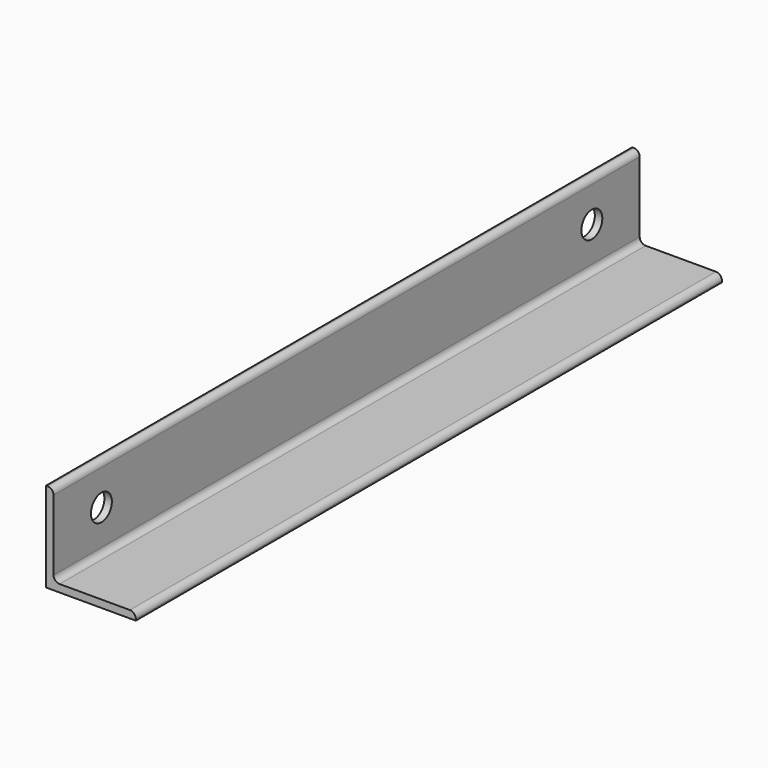
from build123d import *

# Parameters (mm, degrees)
F1_DEPTH = 311.15
F2_R     = 5.08
F3_R     = 11.1125
F4_DEPTH = 25.4


with BuildPart() as f1:
    # F0 (on Front) → F1 (new body, symmetric)
    with BuildSketch(Plane.XZ):
        Polygon((-38.1, -38.1), (38.1, -38.1), (38.1, -31.75), (-31.75, -31.75), (-31.75, 38.1), (-38.1, 38.1), align=None)
    extrude(amount=F1_DEPTH, both=True)

    # F2
    f2_edges = [f1.edges().sort_by_distance(p)[0] for p in [
        (-31.75, 0, 38.1),
        (-31.75, 0, -31.75),
        (38.1, 0, -31.75),
    ]]
    fillet(f2_edges, radius=F2_R)

    # F3 (on face) → F4 (cut)
    with BuildSketch(Plane.YZ.offset(-31.75)):
        with Locations((260.35, 3.175)):
            Circle(F3_R)
        with Locations((-260.35, 3.175)):
            Circle(F3_R)
    extrude(amount=-F4_DEPTH, mode=Mode.SUBTRACT)


solid = f1.part
